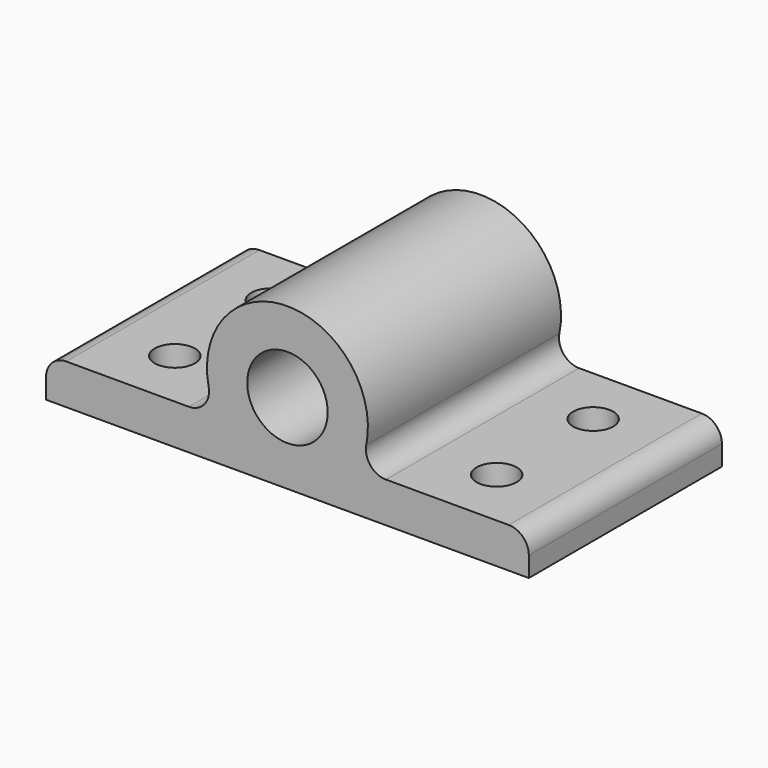
from build123d import *

# Parameters (mm, degrees)
F0_R     = 10
F1_DEPTH = 30
F2_R     = 5
F3_R     = 5
F4_DEPTH = 10.001


with BuildPart() as f1:
    # F0 (on Front) → F1 (new body, symmetric)
    with BuildSketch(Plane.XZ):
        with BuildLine():
            ThreePointArc((24.494897, -10), (20.621914, -8.162278), (19.595918, -4))
            ThreePointArc((19.595918, -4), (0, 20), (-19.595918, -4))
            ThreePointArc((-19.595918, -4), (-20.621914, -8.162278), (-24.494897, -10))
            Line((-24.494897, -10), (-60, -10))
            Line((-60, -10), (-60, -20))
            Line((-60, -20), (60, -20))
            Line((60, -20), (60, -10))
            Line((60, -10), (24.494897, -10))
        make_face()
        Circle(F0_R, mode=Mode.SUBTRACT)
    extrude(amount=F1_DEPTH, both=True)

    # F2
    f2_edges = [f1.edges().sort_by_distance(p)[0] for p in [
        (60, 0, -10),
        (-60, 0, -10),
    ]]
    fillet(f2_edges, radius=F2_R)

    # F3 (on face) → F4 (cut, through all)
    with BuildSketch(Plane.XY.offset(-10)):
        with Locations((-40, 15)):
            Circle(F3_R)
        with Locations((-40, -15)):
            Circle(F3_R)
        with Locations((40, -15)):
            Circle(F3_R)
        with Locations((40, 15)):
            Circle(F3_R)
    extrude(amount=-F4_DEPTH, mode=Mode.SUBTRACT)


solid = f1.part
